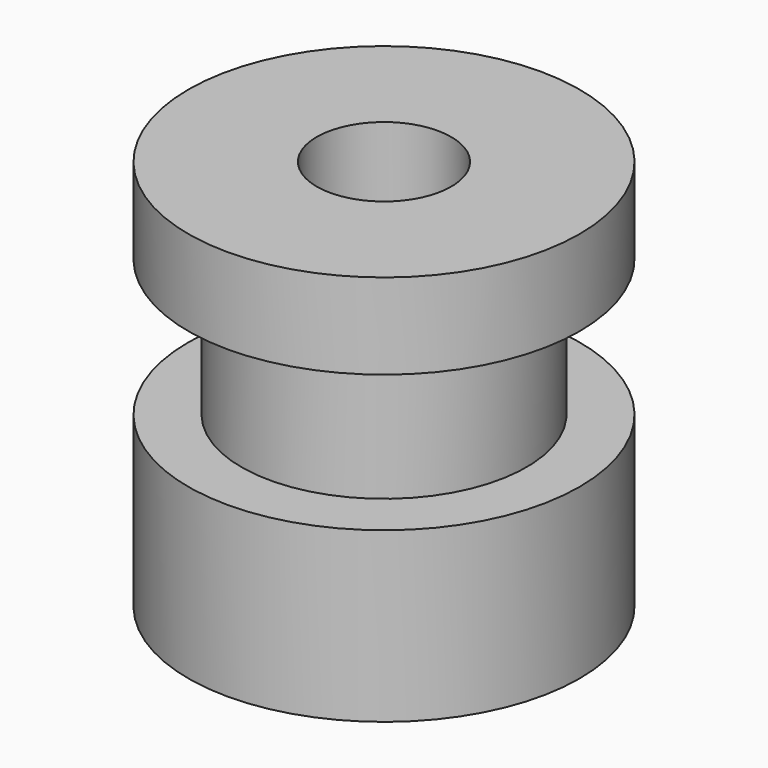
from build123d import *

# Parameters (mm, degrees)
F0_W           = 30
F0_H           = 24
F1_DEPTH       = 3
F2_D           = 3.3
F3_R           = 8
F4_DEPTH       = 16
F6_W           = 2.2
F6_H           = 5.6
F10_D          = 5.5
F11_R          = 5
F12_W          = 35.0341517478
F12_H          = 6.4177829772
F13_DEPTH      = 25
F13_DEPTH_BACK = 25


with BuildPart() as f1:
    # F0 (on Top) → F1 (new body)
    with BuildSketch(Plane.XY):
        Rectangle(F0_W, F0_H)
    extrude(amount=-F1_DEPTH)

    # F2 (through all)
    with Locations(Plane.XY):
        with Locations((-9, 6.7), (9, 6.7)):
            Hole(F2_D / 2)

    # F3 (on face) → F4 (join)
    with BuildSketch(Plane.XY):
        Circle(F3_R)
    extrude(amount=F4_DEPTH)

    # F6 (on Front) → F8 (revolve, cut)
    with BuildSketch(Plane.XZ):
        with Locations((-6.9275095962, 9.7)):
            Rectangle(F6_W, F6_H)
    revolve(axis=Axis((0, 0, 17.9499220103), (0, 0, 1)), mode=Mode.SUBTRACT)

    # F10 (through all)
    with Locations(Plane(origin=(0, 0, -3), x_dir=(1, 0, 0), z_dir=(0, 0, -1))):
        with Locations((0, 0)):
            Hole(F10_D / 2)

    # F11
    f11_edges = [f1.edges().sort_by_distance(p)[0] for p in [
        (15, -12, -1.5),
        (15, 12, -1.5),
        (-15, 12, -1.5),
        (-15, -12, -1.5),
    ]]
    fillet(f11_edges, radius=F11_R)

    # F12 (on Front) → F13 (cut, two sides)
    with BuildSketch(Plane.XZ) as f13_sk:
        with Locations((-0.1057451591, -3.2088914886)):
            Rectangle(F12_W, F12_H)
    extrude(amount=-F13_DEPTH, mode=Mode.SUBTRACT)
    extrude(f13_sk.sketch, amount=F13_DEPTH_BACK, mode=Mode.SUBTRACT)


solid = f1.part
